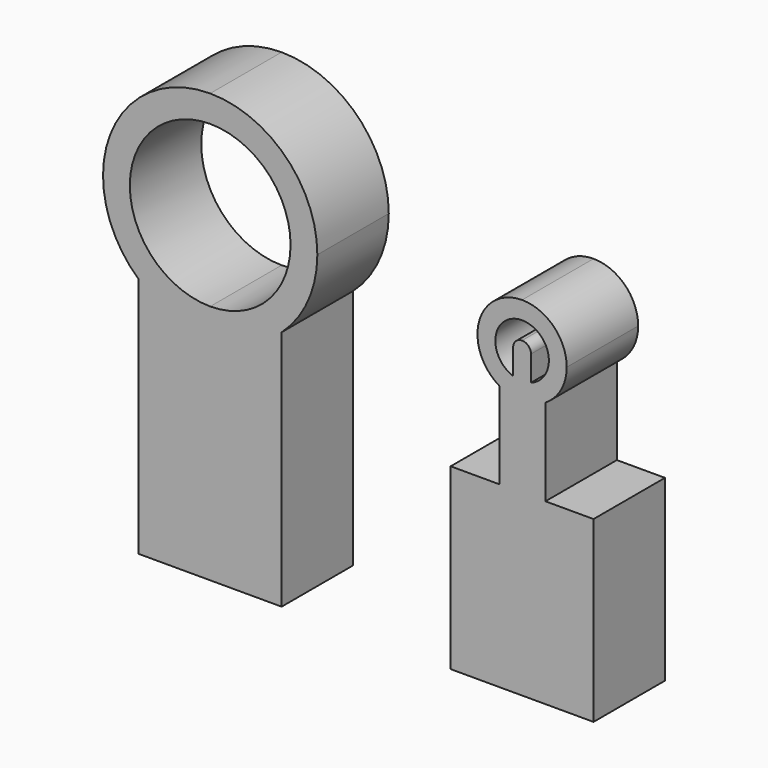
from build123d import *

# Parameters (mm, degrees)
F0_W     = 4
F0_H     = 12
F1_DEPTH = 5
F3_DEPTH = 5


with BuildPart() as f1:
    # F0 (on Front) → F1 (new body)
    with BuildSketch(Plane.XZ):
        with Locations((-2, 6)):
            Rectangle(F0_W, F0_H)
        with Locations((2, 6)):
            Rectangle(F0_W, F0_H)
        with BuildLine():
            ThreePointArc((4, 13.527864), (2.140933, 12.394966), (0, 12))
            Line((0, 12), (4, 12))
            Line((4, 12), (4, 13.527864))
        make_face()
        with BuildLine():
            ThreePointArc((-4, 13.527864), (-2.140933, 12.394966), (0, 12))
            Line((0, 12), (0, 13.5))
            ThreePointArc((0, 13.5), (-4.5, 18), (0, 22.5))
            Line((0, 22.5), (0, 24))
            ThreePointArc((0, 24), (-5.605034, 20.140933), (-4, 13.527864))
        make_face()
        with BuildLine():
            Line((-4, 12), (0, 12))
            ThreePointArc((0, 12), (-2.140933, 12.394966), (-4, 13.527864))
            Line((-4, 13.527864), (-4, 12))
        make_face()
        with BuildLine():
            Line((0, 13.5), (0, 12))
            ThreePointArc((0, 12), (2.140933, 12.394966), (4, 13.527864))
            ThreePointArc((4, 13.527864), (5.477226, 15.55051), (6, 18))
            ThreePointArc((6, 18), (4.242641, 22.242641), (0, 24))
            Line((0, 24), (0, 22.5))
            ThreePointArc((0, 22.5), (3.181981, 21.181981), (4.5, 18))
            ThreePointArc((4.5, 18), (3.181981, 14.818019), (0, 13.5))
        make_face()
    extrude(amount=-F1_DEPTH)


with BuildPart() as f3:
    # F2 (on Front) → F3 (new body)
    with BuildSketch(Plane.XZ):
        with BuildLine():
            Line((17.465726, 16.5), (17.465726, 15.5))
            ThreePointArc((17.465726, 15.5), (17.719379, 15.521602), (17.965726, 15.585786))
            Line((17.965726, 15.585786), (17.965726, 16.5))
            Line((17.965726, 16.5), (17.465726, 16.5))
        make_face()
        with BuildLine():
            ThreePointArc((16.965726, 15.585786), (17.212073, 15.521602), (17.465726, 15.5))
            Line((17.465726, 15.5), (17.465726, 16.5))
            Line((17.465726, 16.5), (16.965726, 16.5))
            Line((16.965726, 16.5), (16.965726, 15.585786))
        make_face()
        with BuildLine():
            Line((16.965726, 15.5), (17.465726, 15.5))
            ThreePointArc((17.465726, 15.5), (17.212073, 15.521602), (16.965726, 15.585786))
            Line((16.965726, 15.585786), (16.965726, 15.5))
        make_face()
        with BuildLine():
            ThreePointArc((17.965726, 15.585786), (17.719379, 15.521602), (17.465726, 15.5))
            Line((17.465726, 15.5), (17.965726, 15.5))
            Line((17.965726, 15.5), (17.965726, 15.585786))
        make_face()
        with BuildLine():
            ThreePointArc((17.965726, 17), (17.819279, 16.646447), (17.465726, 16.5))
            Line((17.465726, 16.5), (17.965726, 16.5))
            Line((17.965726, 16.5), (17.965726, 17))
        make_face()
        with BuildLine():
            ThreePointArc((17.965726, 17), (17.819279, 17.353553), (17.465726, 17.5))
            Line((17.465726, 17.5), (17.465726, 16.5))
            ThreePointArc((17.465726, 16.5), (17.819279, 16.646447), (17.965726, 17))
        make_face()
        with BuildLine():
            Line((17.465726, 16.5), (17.465726, 17.5))
            ThreePointArc((17.465726, 17.5), (17.112172, 17.353553), (16.965726, 17))
            ThreePointArc((16.965726, 17), (17.112172, 16.646447), (17.465726, 16.5))
        make_face()
        with BuildLine():
            Line((16.965726, 16.5), (17.465726, 16.5))
            ThreePointArc((17.465726, 16.5), (17.112172, 16.646447), (16.965726, 17))
            Line((16.965726, 17), (16.965726, 16.5))
        make_face()
        with BuildLine():
            ThreePointArc((17.465726, 19.5), (15.054735, 17.661152), (16.1905, 14.849698))
            Line((16.1905, 14.849698), (17.465726, 14.849698))
            Line((17.465726, 14.849698), (17.465726, 14.869544))
            Line((17.465726, 14.869544), (17.465726, 15.5))
            Line((17.465726, 15.5), (16.965726, 15.5))
            Line((16.965726, 15.5), (16.965726, 15.585786))
            ThreePointArc((16.965726, 15.585786), (15.987328, 17.253653), (17.465726, 18.5))
            Line((17.465726, 18.5), (17.465726, 19.5))
        make_face()
        with BuildLine():
            Line((17.465726, 14.869544), (18.773838, 14.869544))
            ThreePointArc((18.773838, 14.869544), (19.6475, 15.779402), (19.965726, 17))
            ThreePointArc((19.965726, 17), (19.233493, 18.767767), (17.465726, 19.5))
            Line((17.465726, 19.5), (17.465726, 18.5))
            ThreePointArc((17.465726, 18.5), (18.526386, 18.06066), (18.965726, 17))
            ThreePointArc((18.965726, 17), (18.690471, 16.133975), (17.965726, 15.585786))
            Line((17.965726, 15.585786), (17.965726, 15.5))
            Line((17.965726, 15.5), (17.465726, 15.5))
            Line((17.465726, 15.5), (17.465726, 14.869544))
        make_face()
        with BuildLine():
            ThreePointArc((17.465726, 14.5), (18.14538, 14.594159), (18.773838, 14.869544))
            Line((18.773838, 14.869544), (17.465726, 14.869544))
            Line((17.465726, 14.869544), (17.465726, 14.849698))
            Line((17.465726, 14.849698), (17.465726, 14.5))
        make_face()
        with BuildLine():
            Line((17.465726, 14.849698), (16.1905, 14.849698))
            ThreePointArc((16.1905, 14.849698), (16.804573, 14.589009), (17.465726, 14.5))
            Line((17.465726, 14.5), (17.465726, 14.849698))
        make_face()
        with BuildLine():
            Line((18.465726, 10), (18.773838, 10))
            Line((18.773838, 10), (18.773838, 14.869544))
            ThreePointArc((18.773838, 14.869544), (18.14538, 14.594159), (17.465726, 14.5))
            Line((17.465726, 14.5), (17.465726, 10))
            Line((17.465726, 10), (18.465726, 10))
        make_face()
        with BuildLine():
            Line((16.1905, 14.849698), (16.1905, 10))
            Line((16.1905, 10), (16.465726, 10))
            Line((16.465726, 10), (17.465726, 10))
            Line((17.465726, 10), (17.465726, 14.5))
            ThreePointArc((17.465726, 14.5), (16.804573, 14.589009), (16.1905, 14.849698))
        make_face()
        Polygon((13.465726, 10), (13.465726, 0), (21.465726, 0), (21.465726, 10), (18.773838, 10), (18.465726, 10), (17.465726, 10), (16.465726, 10), (16.1905, 10), align=None)
    extrude(amount=-F3_DEPTH)


solid = Compound([f1.part, f3.part])
